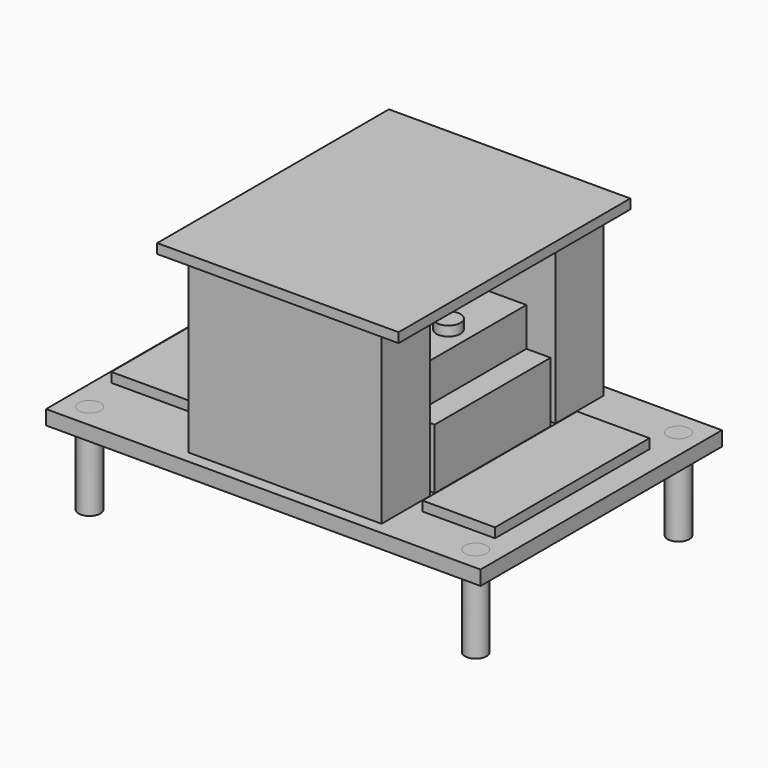
from build123d import *

# Parameters (mm, degrees)
F0_W      = 45.72
F0_H      = 31.75
F0_R      = 1.143
F1_DEPTH  = 1.524
F2_R      = 1.143
F3_DEPTH  = 9.525
F4_W      = 17.78
F4_H      = 15.24
F5_DEPTH  = 6.35
F6_W      = 15.24
F6_H      = 15.24
F7_DEPTH  = 4.064
F8_W      = 20.32
F8_H      = 6.35
F9_DEPTH  = 17.78
F10_W     = 8.89
F10_H     = 10.16
F11_DEPTH = 0.508
F12_W     = 6.096
F12_H     = 8.89
F13_DEPTH = 1.016
F14_R     = 1.27
F15_DEPTH = 1.016
F16_W     = 25.4
F16_H     = 30.48
F17_DEPTH = 1.016
F18_W     = 10.795
F18_H     = 17.78
F18_W_2   = 7.62
F18_H_2   = 20.32
F19_DEPTH = 1.016


with BuildPart() as f1:
    # F0 (on Top) → F1 (new body)
    with BuildSketch(Plane.XY):
        with Locations((0.095934, 0.024364)):
            Rectangle(F0_W, F0_H)
        with Locations((-2.190066, -11.405636)):
            Circle(F0_R, mode=Mode.SUBTRACT)
        with Locations((4.413934, -11.405636)):
            Circle(F0_R, mode=Mode.SUBTRACT)
        with Locations((1.365934, -4.420636)):
            Circle(F0_R, mode=Mode.SUBTRACT)
        with Locations((-2.190066, 11.454364)):
            Circle(F0_R, mode=Mode.SUBTRACT)
        with Locations((1.365934, 4.469364)):
            Circle(F0_R, mode=Mode.SUBTRACT)
        with Locations((4.413934, 11.454364)):
            Circle(F0_R, mode=Mode.SUBTRACT)
    extrude(amount=-F1_DEPTH)


with BuildPart() as f3:
    # F2 (on Top) → F3 (new body)
    with BuildSketch(Plane.XY):
        with Locations((-20.224066, 13.359364)):
            Circle(F2_R)
        with Locations((-20.224066, -13.310636)):
            Circle(F2_R)
        with Locations((20.415934, -13.310636)):
            Circle(F2_R)
        with Locations((20.415934, 13.359364)):
            Circle(F2_R)
    extrude(amount=-F3_DEPTH)


with BuildPart() as f5:
    # F4 (on Top) → F5 (new body)
    with BuildSketch(Plane.XY):
        with Locations((2.635934, 0.024364)):
            Rectangle(F4_W, F4_H)
    extrude(amount=F5_DEPTH)


with BuildPart() as f7:
    # F6 (on face) → F7 (new body)
    with BuildSketch(Plane.XY.offset(6.35)):
        with Locations((1.365934, 0.024364)):
            Rectangle(F6_W, F6_H)
    extrude(amount=F7_DEPTH)


with BuildPart() as f9:
    # F8 (on face) → F9 (new body)
    with BuildSketch(Plane.XY):
        with Locations((1.365934, -11.405636)):
            Rectangle(F8_W, F8_H)
        with Locations((1.365934, 11.454364)):
            Rectangle(F8_W, F8_H)
    extrude(amount=F9_DEPTH)


with BuildPart() as f11:
    # F10 (on face) → F11 (new body)
    with BuildSketch(Plane.XY.offset(10.414)):
        with Locations((-0.889577, 0.0209)):
            Rectangle(F10_W, F10_H)
    extrude(amount=F11_DEPTH)


with BuildPart() as f13:
    # F12 (on face) → F13 (new body)
    with BuildSketch(Plane.XY.offset(10.922)):
        with Locations((-1.538513, 0.024363)):
            Rectangle(F12_W, F12_H)
    extrude(amount=F13_DEPTH)


with BuildPart() as f15:
    # F14 (on face) → F15 (new body)
    with BuildSketch(Plane.XY.offset(10.414)):
        with Locations((6.699934, 0.243398)):
            Circle(F14_R)
    extrude(amount=F15_DEPTH)


with BuildPart() as f17:
    # F16 (on face) → F17 (new body)
    with BuildSketch(Plane.XY.offset(17.78)):
        with Locations((1.170507, -0.036698)):
            Rectangle(F16_W, F16_H)
    extrude(amount=F17_DEPTH)


with BuildPart() as f19:
    # F18 (on face) → F19 (new body)
    with BuildSketch(Plane.XY):
        with Locations((-16.096566, 0.024364)):
            Rectangle(F18_W, F18_H)
        with Locations((16.605934, -0.610636)):
            Rectangle(F18_W_2, F18_H_2)
    extrude(amount=F19_DEPTH)


solid = Compound([f1.part, f3.part, f5.part, f7.part, f9.part, f11.part, f13.part, f15.part, f17.part, f19.part])
